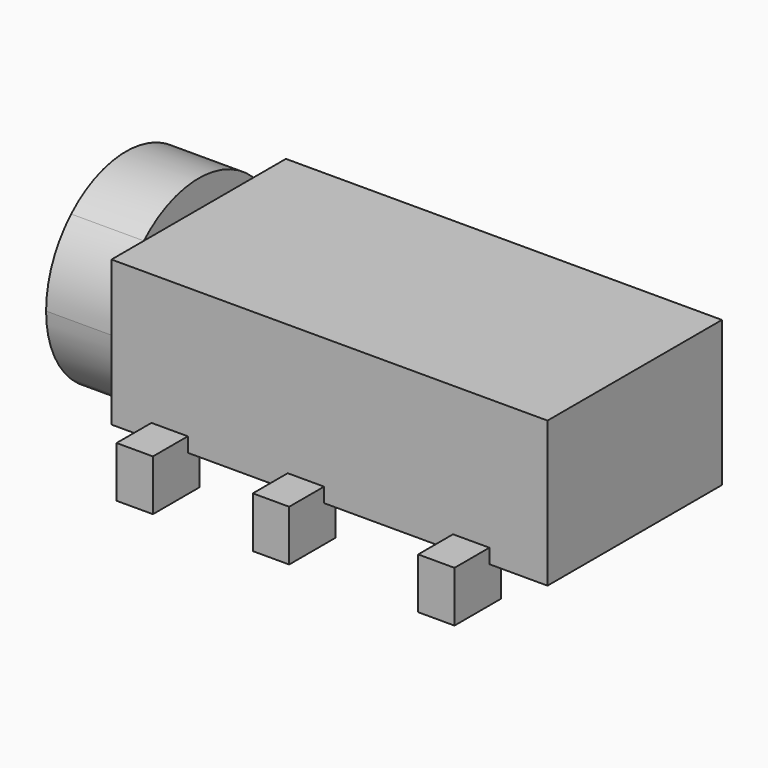
from build123d import *

# Parameters (mm, degrees)
F0_W          = 12
F0_H          = 6
F1_DEPTH      = 4
F3_DEPTH      = 2
F4_W          = 1
F4_H          = 1.2
F4_H_2        = 0.4
F5_DEPTH      = 1
F5_DEPTH_BACK = 0.4


with BuildPart() as f1:
    # F0 (on Top) → F1 (new body)
    with BuildSketch(Plane.XY):
        with Locations((6, 0)):
            Rectangle(F0_W, F0_H)
        with Locations((6, 0)):
            Rectangle(F0_W, F0_H)
    extrude(amount=F1_DEPTH)

    # F2 (on face) → F3 (join)
    with BuildSketch(Plane(origin=(0, 0, 0), x_dir=(0, -1, 0), z_dir=(-1, 0, 0))):
        with BuildLine():
            ThreePointArc((1.8874586088, 0), (2.5251743677, 0.910966294), (2.75, 2))
            ThreePointArc((2.75, 2), (2.5251743677, 3.089033706), (1.8874586088, 4))
            Line((1.8874586088, 4), (-1.8874586088, 4))
            ThreePointArc((-1.8874586088, 4), (-2.75, 2), (-1.8874586088, 0))
            Line((-1.8874586088, 0), (1.8874586088, 0))
        make_face()
        with BuildLine():
            Line((-1.8874586088, 4), (1.8874586088, 4))
            ThreePointArc((1.8874586088, 4), (0, 4.75), (-1.8874586088, 4))
        make_face()
        with BuildLine():
            ThreePointArc((-1.8874586088, 0), (0, -0.75), (1.8874586088, 0))
            Line((1.8874586088, 0), (-1.8874586088, 0))
        make_face()
    extrude(amount=F3_DEPTH)

    # F4 (on face) → F5 (join, two sides)
    with BuildSketch(Plane(origin=(0, 0, 0), x_dir=(1, 0, 0), z_dir=(0, 0, -1))) as f5_sk:
        with Locations((1.6, -3.6)):
            Rectangle(F4_W, F4_H)
        with Locations((1.6, 3.6)):
            Rectangle(F4_W, F4_H)
        with Locations((1.6, 2.8)):
            Rectangle(F4_W, F4_H_2)
        with Locations((5.35, 2.8)):
            Rectangle(F4_W, F4_H_2)
        with Locations((5.35, 3.6)):
            Rectangle(F4_W, F4_H)
        with Locations((1.6, -2.8)):
            Rectangle(F4_W, F4_H_2)
        with Locations((5.35, -3.6)):
            Rectangle(F4_W, F4_H)
        with Locations((5.35, -2.8)):
            Rectangle(F4_W, F4_H_2)
        with Locations((9.9, 2.8)):
            Rectangle(F4_W, F4_H_2)
        with Locations((9.9, 3.6)):
            Rectangle(F4_W, F4_H)
    extrude(amount=F5_DEPTH)
    extrude(f5_sk.sketch, amount=-F5_DEPTH_BACK)


solid = f1.part
